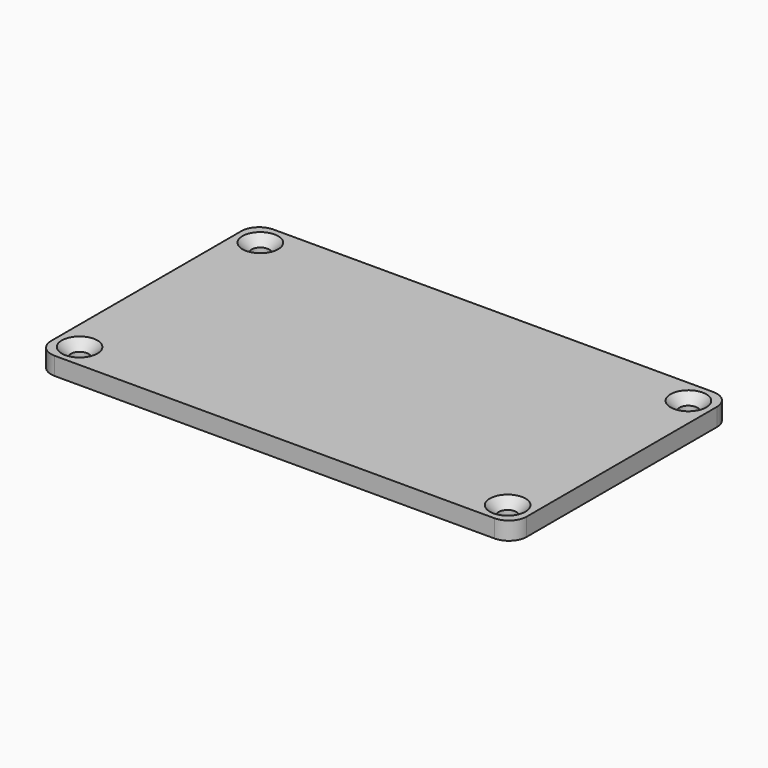
from build123d import *

# Parameters (mm, degrees)
SKETCH_W     = 80
SKETCH_H     = 46
PAD_DEPTH    = 3
FILLET_R     = 3
FILLET001_R  = 3
SKETCH001_R  = 1.5
POCKET_DEPTH = 3
CHAMFER_SIZE = 1.5


with BuildPart() as part:
    # Sketch → Pad (new body)
    with BuildSketch(Plane.XY):
        with Locations((40, 23)):
            Rectangle(SKETCH_W, SKETCH_H)
    extrude(amount=PAD_DEPTH)

    # Fillet
    fillet_edges = [part.edges().sort_by_distance(p)[0] for p in [
        (80, 0, 1.5),
        (0, 0, 1.5),
    ]]
    fillet(fillet_edges, radius=FILLET_R)

    # Fillet001
    fillet001_edges = [part.edges().sort_by_distance(p)[0] for p in [
        (80, 46, 1.5),
        (0, 46, 1.5),
    ]]
    fillet(fillet001_edges, radius=FILLET001_R)

    # Sketch001 → Pocket (cut)
    with BuildSketch(Plane.XY.offset(3)):
        with Locations((4, 42)):
            Circle(SKETCH001_R)
        with Locations((4, 4)):
            Circle(SKETCH001_R)
        with Locations((76, 4)):
            Circle(SKETCH001_R)
        with Locations((76, 42)):
            Circle(SKETCH001_R)
    extrude(amount=-POCKET_DEPTH, mode=Mode.SUBTRACT)

    # Chamfer
    chamfer_edges = [part.edges().sort_by_distance(p)[0] for p in [
        (2.5, 42, 3),
        (2.5, 4, 3),
        (74.5, 4, 3),
        (74.5, 42, 3),
    ]]
    chamfer(chamfer_edges, length=CHAMFER_SIZE)


solid = part.part
